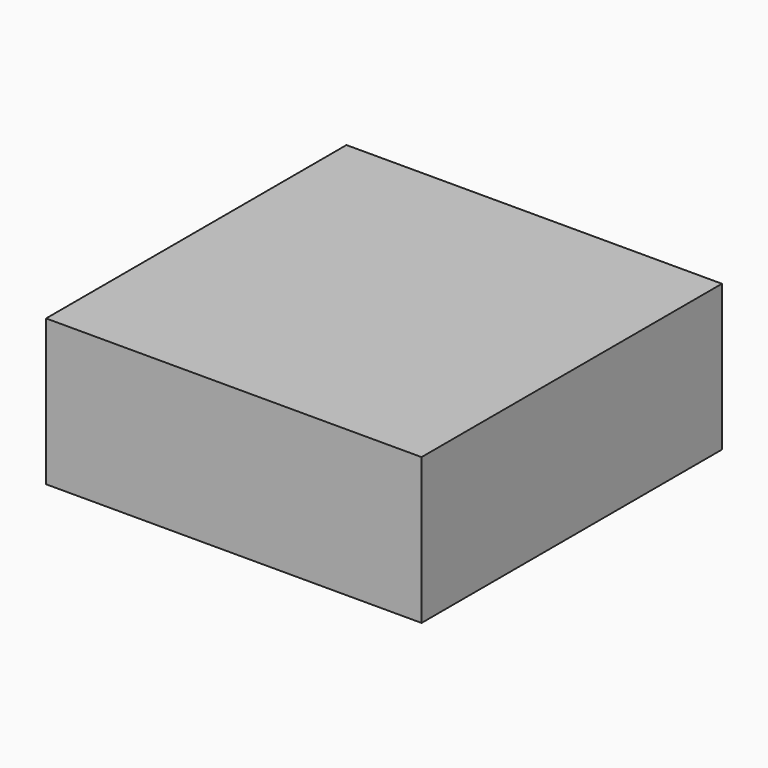
from build123d import *

# Parameters (mm, degrees)
F0_W     = 457.2
F0_H     = 457.2
F0_W_2   = 419.1
F0_H_2   = 419.1
F1_DEPTH = 127
F2_W     = 457.2
F2_H     = 457.2
F3_DEPTH = 50.8


with BuildPart() as f1:
    # F0 (on Top) → F1 (new body)
    with BuildSketch(Plane.XY):
        with Locations((-7.292406, 29.727592)):
            Rectangle(F0_W, F0_H)
        with Locations((-7.292406, 29.727592)):
            Rectangle(F0_W_2, F0_H_2, mode=Mode.SUBTRACT)
    extrude(amount=F1_DEPTH)

    # F2 (on face) → F3 (join)
    with BuildSketch(Plane.XY.offset(127)):
        with Locations((-7.292406, 29.727592)):
            Rectangle(F2_W, F2_H)
    extrude(amount=F3_DEPTH)


solid = f1.part
